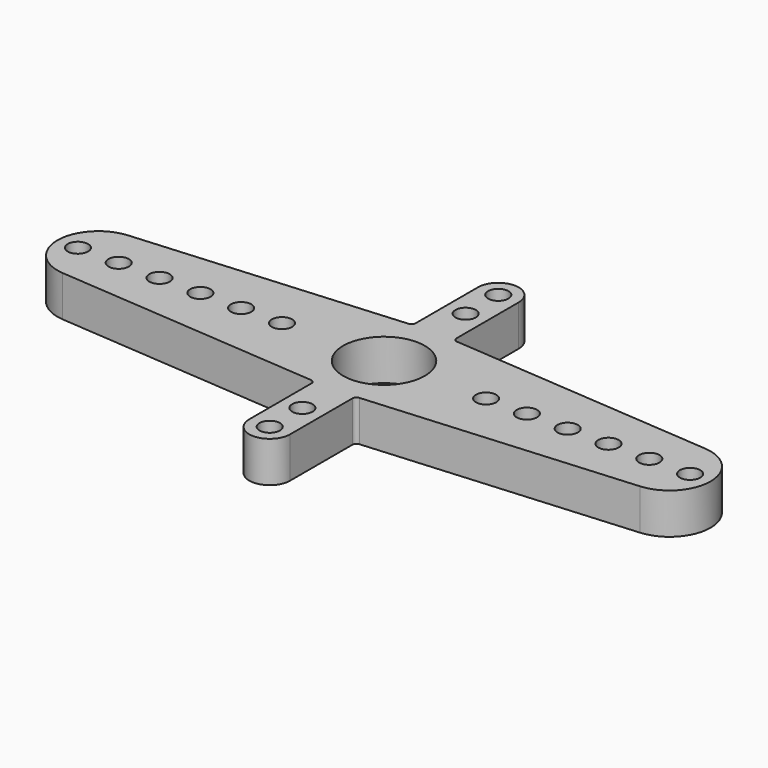
from build123d import *

# Parameters (mm, degrees)
F1_DEPTH = 2
F3_D     = 1
F5_D     = 4


with BuildPart() as f1:
    # F0 (on Top) → F1 (new body)
    with BuildSketch(Plane.XY):
        with BuildLine():
            Line((1, 3.185364), (1, 7))
            ThreePointArc((1, 7), (0, 8), (-1, 7))
            Line((-1, 7), (-1, 3.185364))
            ThreePointArc((-1, 3.185364), (-1.053313, 3.049412), (-1.18483, 2.985941))
            Line((-1.18483, 2.985941), (-14.146356, 2))
            ThreePointArc((-14.146356, 2), (-16, 0), (-14.146356, -2))
            Line((-14.146356, -2), (-1.18483, -2.985941))
            ThreePointArc((-1.18483, -2.985941), (-1.053313, -3.049412), (-1, -3.185364))
            Line((-1, -3.185364), (-1, -7))
            ThreePointArc((-1, -7), (0, -8), (1, -7))
            Line((1, -7), (1, -3.185364))
            ThreePointArc((1, -3.185364), (1.053313, -3.049412), (1.18483, -2.985941))
            Line((1.18483, -2.985941), (14.146356, -2))
            ThreePointArc((14.146356, -2), (16, 0), (14.146356, 2))
            Line((14.146356, 2), (1.18483, 2.985941))
            ThreePointArc((1.18483, 2.985941), (1.053313, 3.049412), (1, 3.185364))
        make_face()
    extrude(amount=F1_DEPTH)

    # F3 (through all)
    with Locations(Plane.XY.offset(2)):
        with Locations((5, 0), (7, 0), (9, 0), (11, 0), (13, 0), (15, 0), (0, 5), (0, 7), (-5, 0), (-7, 0), (-9, 0), (-11, 0), (-13, 0), (-15, 0), (0, -5), (0, -7)):
            Hole(F3_D / 2)

    # F5 (through all)
    with Locations(Plane.XY.offset(2)):
        with Locations((0, 0)):
            Hole(F5_D / 2)


solid = f1.part
